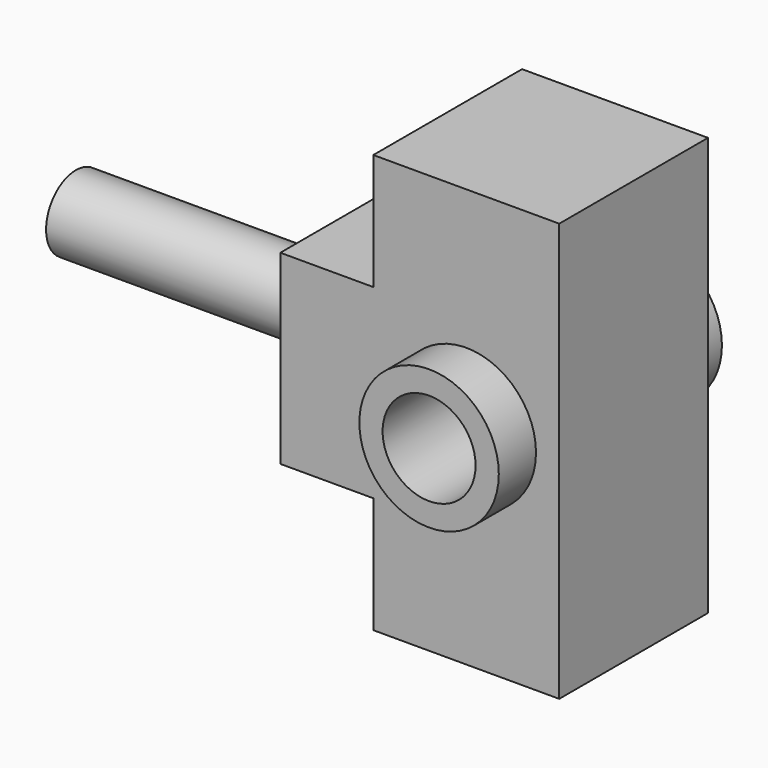
from build123d import *

# Parameters (mm, degrees)
F0_W          = 50.8
F0_H          = 50.8
F1_DEPTH      = 114.3
F2_R          = 12.7
F3_DEPTH      = 76.2
F2_R_2        = 19.05
F4_DEPTH      = 12.7
F4_DEPTH_BACK = 63.5
F5_R          = 10.16
F6_DEPTH      = 101.6
F5_W          = 50.8
F5_H          = 50.8
F7_DEPTH      = 25.4


with BuildPart() as f1:
    # F0 (on Top) → F1 (new body)
    with BuildSketch(Plane.XY):
        with Locations((-24.373119, -0.228241)):
            Rectangle(F0_W, F0_H)
    extrude(amount=F1_DEPTH)

    # F2 (on face) → F3 (cut)
    with BuildSketch(Plane.XZ.offset(25.628241)):
        with Locations((-24.373119, 57.15)):
            Circle(F2_R)
    extrude(amount=-F3_DEPTH, mode=Mode.SUBTRACT)

    # F2 (on face) → F4 (join, two sides)
    with BuildSketch(Plane.XZ.offset(25.628241)) as f4_sk:
        with Locations((-24.373119, 57.15)):
            Circle(F2_R_2)
        with Locations((-24.373119, 57.15)):
            Circle(F2_R, mode=Mode.SUBTRACT)
    extrude(amount=F4_DEPTH)
    extrude(f4_sk.sketch, amount=-F4_DEPTH_BACK)

    # F5 (on face) → F6 (join)
    with BuildSketch(Plane(origin=(-49.773119, 0, 0), x_dir=(0, -1, 0), z_dir=(-1, 0, 0))):
        with Locations((0.228241, 57.132342)):
            Circle(F5_R)
    extrude(amount=F6_DEPTH)

    # F5 (on face) → F7 (join)
    with BuildSketch(Plane(origin=(-49.773119, 0, 0), x_dir=(0, -1, 0), z_dir=(-1, 0, 0))):
        with Locations((0.228241, 57.132342)):
            Rectangle(F5_W, F5_H)
        with Locations((0.228241, 57.132342)):
            Circle(F5_R, mode=Mode.SUBTRACT)
    extrude(amount=F7_DEPTH)


solid = f1.part
